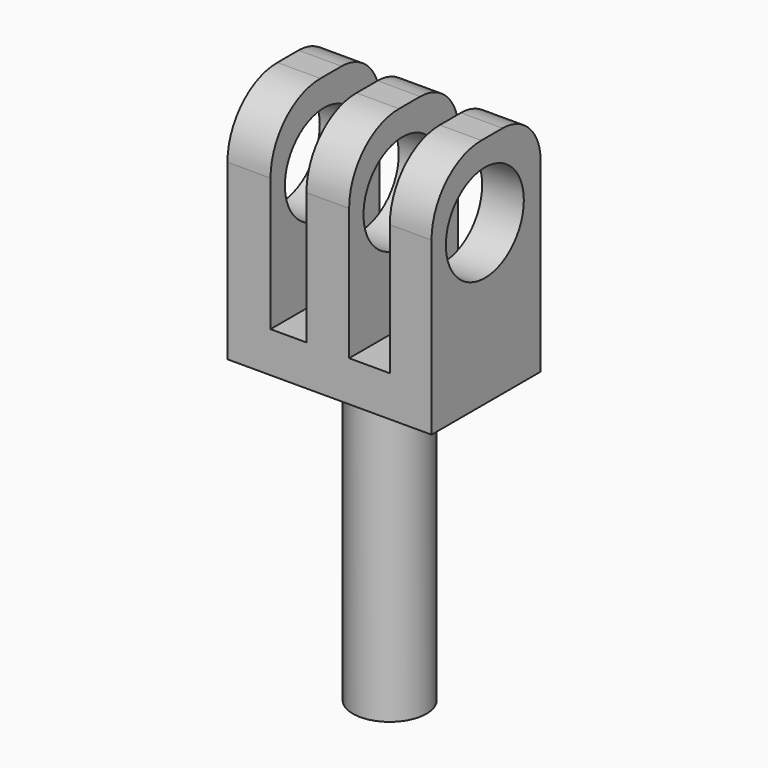
from build123d import *

# Parameters (mm, degrees)
F0_W     = 4.6103289351
F0_H     = 4.3393736705
F0_W_2   = 3.8445899263
F0_H_2   = 20.9079552442
F0_W_3   = 4.5673176646
F0_H_3   = 20.7905257121
F0_W_4   = 4.3573188595
F0_W_5   = 4.4623203576
F0_H_4   = 20.6730971113
F1_DEPTH = 14.58655
F2_R     = 5.2152852963
F3_DEPTH = 26.42732
F4_R     = 6.6748900837
F5_R     = 5.08
F6_R     = 3.9375516614
F7_DEPTH = 31.84089


with BuildPart() as f1:
    # F0 (on Front) → F1 (new body)
    with BuildSketch(Plane.XZ):
        with Locations((-5.2306521684, -7.9293963499)):
            Rectangle(F0_W, F0_H)
        with Locations((-1.0031927377, -7.9293963499)):
            Rectangle(F0_W_2, F0_H)
        with Locations((-5.2306521684, 4.6942681074)):
            Rectangle(F0_W, F0_H_2)
        with Locations((3.2027610578, -7.9293963499)):
            Rectangle(F0_W_3, F0_H)
        with Locations((3.2027610578, 4.6355533414)):
            Rectangle(F0_W_3, F0_H_3)
        with Locations((7.6650793198, -7.9293963499)):
            Rectangle(F0_W_4, F0_H)
        with Locations((12.0748989284, -7.9293963499)):
            Rectangle(F0_W_5, F0_H)
        with Locations((12.0748989284, 4.576839041)):
            Rectangle(F0_W_5, F0_H_4)
    extrude(amount=F1_DEPTH)

    # F2 (on face) → F3 (cut)
    with BuildSketch(Plane.YZ.offset(14.3060591072)):
        with Locations((-7.4513442814, 6.9766114466)):
            Circle(F2_R)
    extrude(amount=-F3_DEPTH, mode=Mode.SUBTRACT)

    # F4
    f4_edges = [f1.edges().sort_by_distance(p)[0] for p in [
        (-5.230652, -14.58655, 15.148246),
        (3.202761, -14.58655, 15.030816),
        (12.074899, -14.58655, 14.913388),
    ]]
    fillet(f4_edges, radius=F4_R)

    # F5
    f5_edges = [f1.edges().sort_by_distance(p)[0] for p in [
        (12.074899, 0, 14.913388),
        (3.202761, 0, 15.030816),
        (-5.230652, 0, 15.148246),
    ]]
    fillet(f5_edges, radius=F5_R)

    # F6 (on face) → F7 (join)
    with BuildSketch(Plane(origin=(0, 0, -10.0990831852), x_dir=(1, 0, 0), z_dir=(0, 0, -1))):
        with Locations((3.3851212356, 6.5314560197)):
            Circle(F6_R)
    extrude(amount=F7_DEPTH)


solid = f1.part
